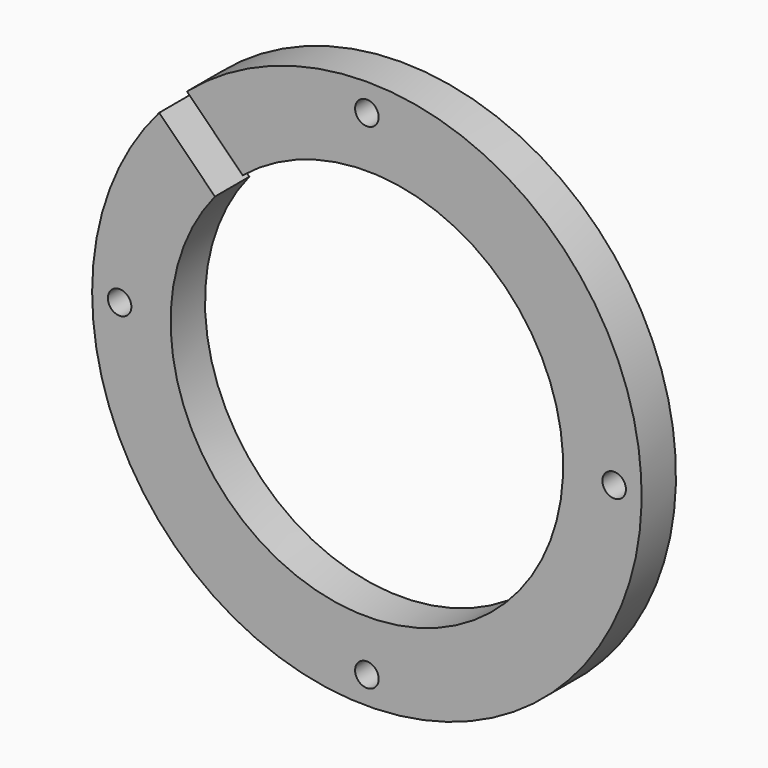
from build123d import *

# Parameters (mm, degrees)
F0_R     = 1.5
F1_DEPTH = 5.47


with BuildPart() as f1:
    # F0 (on Front) → F1 (new body)
    with BuildSketch(Plane.XZ):
        with BuildLine():
            ThreePointArc((-15.821292, 19.356826), (17.67767, -17.67767), (-19.356826, 15.821292))
            Line((-19.356826, 15.821292), (-26.453289, 22.917755))
            ThreePointArc((-26.453289, 22.917755), (24.748737, -24.748737), (-22.917755, 26.453289))
            Line((-22.917755, 26.453289), (-15.821292, 19.356826))
        make_face()
        with Locations((0, -31.5)):
            Circle(F0_R, mode=Mode.SUBTRACT)
        with Locations((-31.5, 0)):
            Circle(F0_R, mode=Mode.SUBTRACT)
        with Locations((31.5, 0)):
            Circle(F0_R, mode=Mode.SUBTRACT)
        with Locations((0, 31.5)):
            Circle(F0_R, mode=Mode.SUBTRACT)
    extrude(amount=F1_DEPTH)


solid = f1.part
